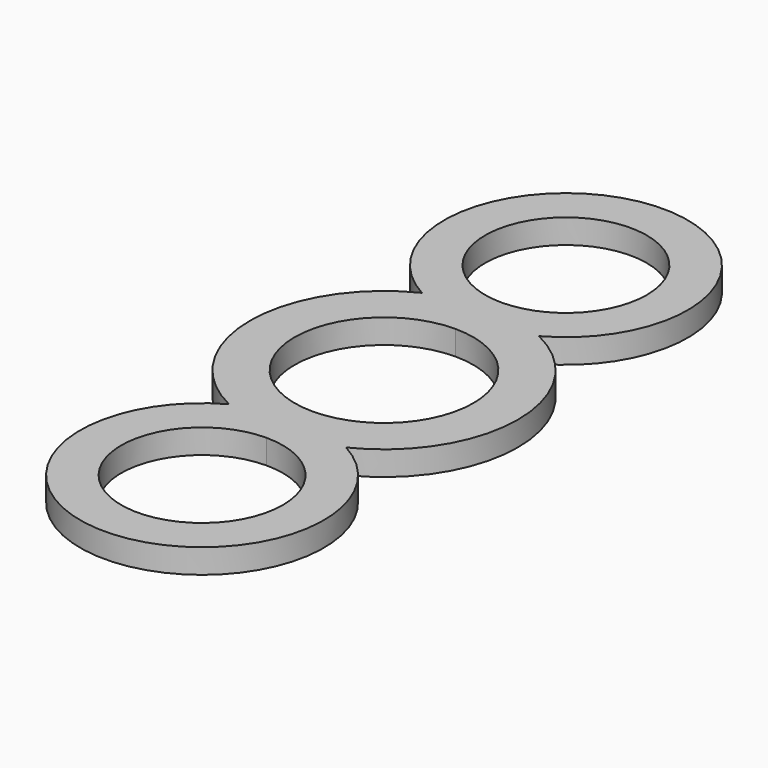
from build123d import *

# Parameters (mm, degrees)
F1_DEPTH = 3


with BuildPart() as f1:
    # F0 (on Top) → F1 (new body)
    with BuildSketch(Plane.XY):
        with BuildLine():
            ThreePointArc((7.205074, 14.84375), (0, 43), (-7.205074, 14.84375))
            ThreePointArc((-7.205074, 14.84375), (-16.5, 0), (-7.205074, -14.84375))
            ThreePointArc((-7.205074, -14.84375), (0, -43), (7.205074, -14.84375))
            ThreePointArc((7.205074, -14.84375), (16.5, 0), (7.205074, 14.84375))
        make_face()
        with BuildLine():
            ThreePointArc((9.95, -28), (-7.035712, -35.035712), (0, -18.05))
            ThreePointArc((0, -18.05), (7.035712, -20.964288), (9.95, -28))
        make_face(mode=Mode.SUBTRACT)
        with BuildLine():
            ThreePointArc((0, 11), (7.778175, 7.778175), (11, 0))
            ThreePointArc((11, 0), (7.778175, -7.778175), (0, -11))
            ThreePointArc((0, -11), (-11, 0), (0, 11))
        make_face(mode=Mode.SUBTRACT)
        with BuildLine():
            ThreePointArc((9.95, 28), (7.035712, 20.964288), (0, 18.05))
            ThreePointArc((0, 18.05), (-7.035712, 35.035712), (9.95, 28))
        make_face(mode=Mode.SUBTRACT)
    extrude(amount=F1_DEPTH)


solid = f1.part
